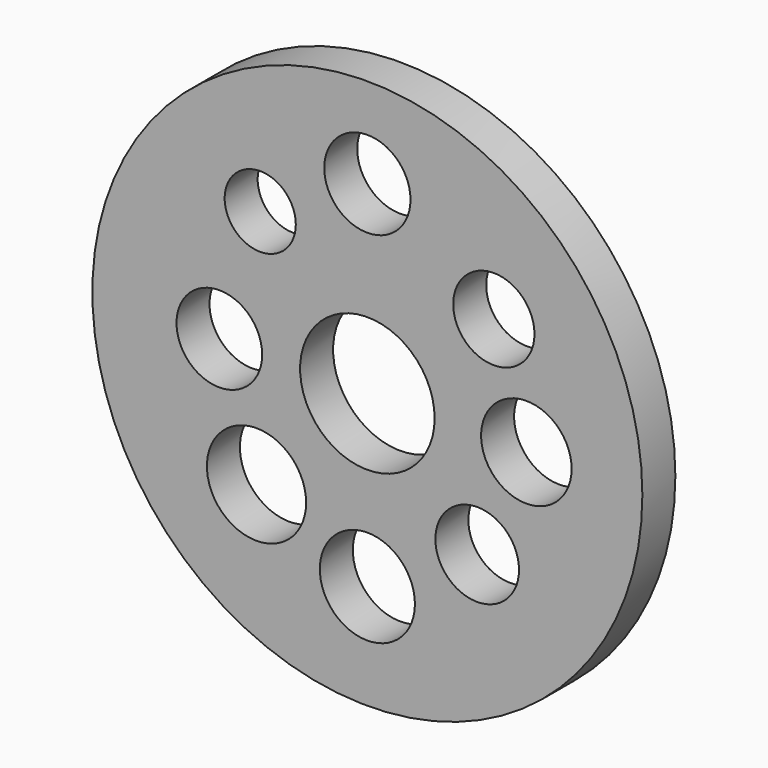
from build123d import *

# Parameters (mm, degrees)
F0_R     = 25.4
F0_R_2   = 4.39198
F0_R_3   = 3.955052
F0_R_4   = 4.581496
F0_R_5   = 6.211197
F0_R_6   = 3.863199
F0_R_7   = 4.17923
F0_R_8   = 3.285085
F0_R_9   = 3.983764
F0_R_10  = 3.753748
F1_DEPTH = 3.81


with BuildPart() as f1:
    # F0 (on Front) → F1 (new body)
    with BuildSketch(Plane.XZ):
        Circle(F0_R)
        with Locations((0, -15.698165)):
            Circle(F0_R_2, mode=Mode.SUBTRACT)
        with Locations((-13.672595, 0)):
            Circle(F0_R_3, mode=Mode.SUBTRACT)
        with Locations((-10.239101, -10.726312)):
            Circle(F0_R_4, mode=Mode.SUBTRACT)
        Circle(F0_R_5, mode=Mode.SUBTRACT)
        with Locations((10.1446, -9.790254)):
            Circle(F0_R_6, mode=Mode.SUBTRACT)
        with Locations((14.685381, 0)):
            Circle(F0_R_7, mode=Mode.SUBTRACT)
        with Locations((-9.894128, 11.582105)):
            Circle(F0_R_8, mode=Mode.SUBTRACT)
        with Locations((0, 17.048545)):
            Circle(F0_R_9, mode=Mode.SUBTRACT)
        with Locations((11.680528, 9.845661)):
            Circle(F0_R_10, mode=Mode.SUBTRACT)
    extrude(amount=F1_DEPTH)


solid = f1.part
